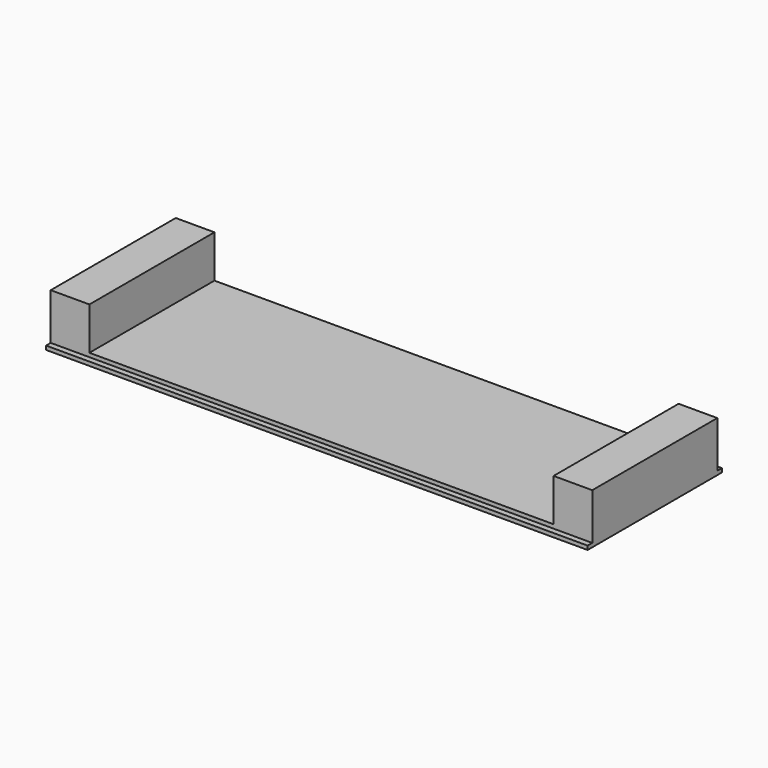
from build123d import *

# Parameters (mm, degrees)
F0_W     = 140
F0_H     = 40.4
F1_DEPTH = 1
F2_W     = 10
F2_H     = 40.4
F3_DEPTH = 11
F4_W     = 140
F4_H     = 43.4
F5_DEPTH = 1


with BuildPart() as f1:
    # F0 (on Top) → F1 (new body)
    with BuildSketch(Plane.XY):
        Rectangle(F0_W, F0_H)
    extrude(amount=F1_DEPTH)

    # F2 (on face) → F3 (join)
    with BuildSketch(Plane.XY.offset(1)):
        with Locations((-65, 0)):
            Rectangle(F2_W, F2_H)
        with Locations((65, 0)):
            Rectangle(F2_W, F2_H)
    extrude(amount=F3_DEPTH)

    # F4 (on face) → F5 (join)
    with BuildSketch(Plane(origin=(0, 0, 0), x_dir=(1, 0, 0), z_dir=(0, 0, -1))):
        Rectangle(F4_W, F4_H)
    extrude(amount=F5_DEPTH)


solid = f1.part
